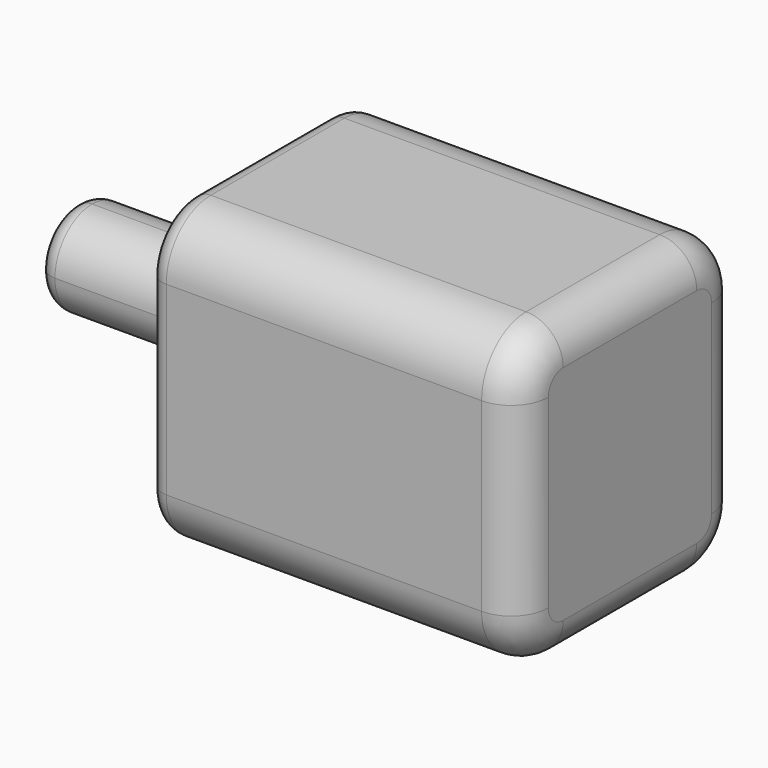
from build123d import *

# Parameters (mm, degrees)
F0_W     = 38.1
F0_H     = 40.64
F1_DEPTH = 50.8
F3_DEPTH = 25.4
F4_R     = 7.62
F5_R     = 2.54
F6_R     = 2.54
F7_R     = 5.08


with BuildPart() as f1:
    # F0 (on Right) → F1 (new body)
    with BuildSketch(Plane.YZ):
        with Locations((3.9571700618, -0.6121383074)):
            Rectangle(F0_W, F0_H)
    extrude(amount=F1_DEPTH)

    # F2 (on face) → F3 (join)
    with BuildSketch(Plane(origin=(0, 0, 0), x_dir=(0, -1, 0), z_dir=(-1, 0, 0))):
        with BuildLine():
            Line((-3.9571700618, -6.9621383074), (-3.9571700618, -0.6121383074))
            Line((-3.9571700618, -0.6121383074), (-10.3071700618, -0.6121383074))
            ThreePointArc((-10.3071700618, -0.6121383074), (-8.4472981223, -5.1022663679), (-3.9571700618, -6.9621383074))
        make_face()
        with BuildLine():
            ThreePointArc((-3.9571700618, -6.9621383074), (0.5329579988, -5.1022663679), (2.3928299382, -0.6121383074))
            Line((2.3928299382, -0.6121383074), (-3.9571700618, -0.6121383074))
            Line((-3.9571700618, -0.6121383074), (-3.9571700618, -6.9621383074))
        make_face()
        with BuildLine():
            Line((-10.3071700618, -0.6121383074), (-3.9571700618, -0.6121383074))
            Line((-3.9571700618, -0.6121383074), (-3.9571700618, 5.7378616926))
            ThreePointArc((-3.9571700618, 5.7378616926), (-8.4472981223, 3.8779897531), (-10.3071700618, -0.6121383074))
        make_face()
        with BuildLine():
            Line((-3.9571700618, -0.6121383074), (2.3928299382, -0.6121383074))
            ThreePointArc((2.3928299382, -0.6121383074), (0.5329579988, 3.8779897531), (-3.9571700618, 5.7378616926))
            Line((-3.9571700618, 5.7378616926), (-3.9571700618, -0.6121383074))
        make_face()
    extrude(amount=F3_DEPTH)

    # F4
    f4_edges = [f1.edges().sort_by_distance(p)[0] for p in [
        (25.4, 23.00717, -20.932138),
        (25.4, -15.09283, -20.932138),
        (25.4, -15.09283, 19.707862),
        (25.4, 23.00717, 19.707862),
    ]]
    fillet(f4_edges, radius=F4_R)

    # F5
    f5_edges = [f1.edges().sort_by_distance(p)[0] for p in [
        (0, 3.95717, -20.932138),
    ]]
    fillet(f5_edges, radius=F5_R)

    # F6
    f6_edges = [f1.edges().sort_by_distance(p)[0] for p in [
        (-25.4, 10.30717, -0.612138),
    ]]
    fillet(f6_edges, radius=F6_R)

    # F7
    f7_edges = [f1.edges().sort_by_distance(p)[0] for p in [
        (50.8, 3.95717, 19.707862),
        (50.8, -12.860984, 17.476015),
        (50.8, -15.09283, -0.612138),
        (50.8, -12.860984, -18.700292),
        (50.8, 3.95717, -20.932138),
        (50.8, 23.00717, -0.612138),
        (50.8, 20.775324, 17.476015),
        (50.8, 20.775324, -18.700292),
    ]]
    fillet(f7_edges, radius=F7_R)


solid = f1.part
